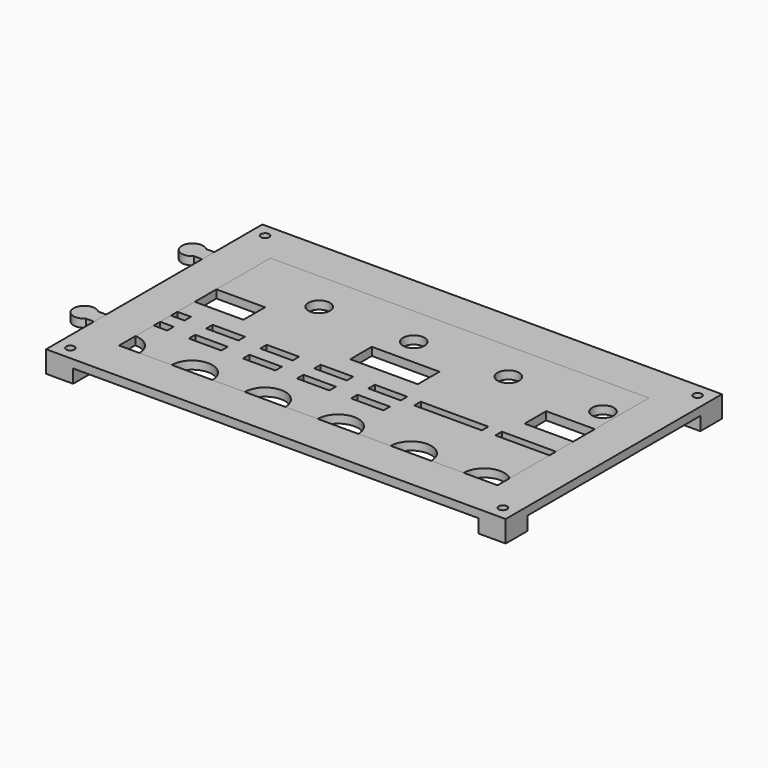
from build123d import *

# Parameters (mm, degrees)
PAD_DEPTH                          = 3
SKETCH011_R                        = 1.6
POCKET_DEPTH                       = 414.570013
SKETCH011_MIRRORED009_2_R          = 1.6
POCKET_MIRRORED009_2_DEPTH         = 414.570013
SKETCH012_R                        = 2.6
POCKET008_DEPTH                    = 3.001
LINEARPATTERN_COUNT                = 8
LINEARPATTERN_PITCH                = 21.428571
SKETCH013_R                        = 4
POCKET009_DEPTH                    = 3.001
LINEARPATTERN001_COUNT             = 5
LINEARPATTERN001_PITCH             = 35
SKETCH014_R                        = 7.5
POCKET010_DEPTH                    = 3.001
LINEARPATTERN002_COUNT             = 6
LINEARPATTERN002_PITCH             = 27
SKETCH015_W                        = 12
SKETCH015_H                        = 3
POCKET011_DEPTH                    = 3.001
LINEARPATTERN003_COUNT             = 5
LINEARPATTERN003_PITCH             = 20
SKETCH016_W                        = 25
SKETCH016_H                        = 10
POCKET012_DEPTH                    = 3.001
LINEARPATTERN004_COUNT             = 3
LINEARPATTERN004_PITCH             = 64.5
SKETCH017_W                        = 25
SKETCH017_H                        = 3
POCKET013_DEPTH                    = 414.570013
LINEARPATTERN005_COUNT             = 2
LINEARPATTERN005_PITCH             = 30
SKETCH007_W                        = 170
SKETCH007_H                        = 100
PAD001_DEPTH                       = 3
SKETCH008_R                        = 1.55
POCKET006_DEPTH                    = 397.508288
POCKET006_DEPTH_BACK               = -394.508288
SKETCH008_MIRRORED003_2_R          = 1.55
POCKET006_MIRRORED003_2_DEPTH      = 397.508288
POCKET006_MIRRORED003_2_DEPTH_BACK = 394.508288
SKETCH009_W                        = 10
SKETCH009_H                        = 10
PAD002_DEPTH                       = 5
SKETCH009_MIRRORED005_2_W          = 10
SKETCH009_MIRRORED005_2_H          = 10
PAD002_MIRRORED005_2_DEPTH         = 5
SKETCH010_R                        = 3
POCKET007_DEPTH                    = 5
SKETCH010_MIRRORED007_2_R          = 3
POCKET007_MIRRORED007_2_DEPTH      = 5
SKETCH018_W                        = 140
SKETCH018_H                        = 70
POCKET014_DEPTH                    = 3.001


with BuildPart() as up:
    # Sketch → Pad (new body)
    with BuildSketch(Plane.XY):
        with BuildLine():
            Line((-85, 50), (85, 50))
            Line((85, 28.181981), (85, 50))
            Line((82, 28.181981), (85, 28.181981))
            ThreePointArc((82, 28.181981), (74.318019, 25), (82, 21.818019))
            Line((82, 21.818019), (85, 21.818019))
            Line((85, 0), (85, 21.818019))
            Line((85, 0), (-85, 0))
            Line((-85, 22.171573), (-85, 0))
            Line((-88, 22.171573), (-85, 22.171573))
            ThreePointArc((-88, 27.828427), (-94.828427, 25), (-88, 22.171573))
            Line((-88, 27.828427), (-85, 27.828427))
            Line((-85, 50), (-85, 27.828427))
        make_face()
    pad = extrude(amount=PAD_DEPTH)

    # Mirrored: Pad across Sketch H_Axis
    add(pad.mirror(Plane.ZX))

    # Sketch011 (on Face1 of Copyrefine) → Pocket (cut, through all)
    with BuildSketch(Plane.XY.offset(3)):
        with Locations((-80, 45)):
            Circle(SKETCH011_R)
    pocket = extrude(amount=-POCKET_DEPTH, mode=Mode.SUBTRACT)

    # Sketch011 Mirrored009 2 → Pocket Mirrored009 2 (cut, through all)
    with BuildSketch(Plane(origin=(0, 0, 3), x_dir=(-1, 0, 0), z_dir=(0, 0, -1))):
        with Locations((-80, 45)):
            Circle(SKETCH011_MIRRORED009_2_R)
    pocket_mirrored009_2 = extrude(amount=POCKET_MIRRORED009_2_DEPTH, mode=Mode.SUBTRACT)

    # Mirrored010: Pocket, Pocket Mirrored009 2 across Sketch011 H_Axis
    add(pocket.mirror(Plane(origin=(0, 0, 3), x_dir=(0, 0, 1), z_dir=(0, 1, 0))), mode=Mode.SUBTRACT)
    add(pocket_mirrored009_2.mirror(Plane(origin=(0, 0, 3), x_dir=(0, 0, 1), z_dir=(0, 1, 0))), mode=Mode.SUBTRACT)

    # Sketch012 (on Face5 of MultiTransform) → Pocket008 (cut, through all)
    with BuildSketch(Plane.XY.offset(3)):
        with Locations((-75, 40)):
            Circle(SKETCH012_R)
    pocket008 = extrude(amount=-POCKET008_DEPTH, mode=Mode.SUBTRACT)

    # LinearPattern: Pocket008 ×8
    with Locations(*[(i * LINEARPATTERN_PITCH, 0, 0) for i in range(1, LINEARPATTERN_COUNT)]):
        add(pocket008, mode=Mode.SUBTRACT)

    # Sketch013 (on Face5 of LinearPattern) → Pocket009 (cut, through all)
    with BuildSketch(Plane.XY.offset(3)):
        with Locations((-75, 20)):
            Circle(SKETCH013_R)
    pocket009 = extrude(amount=-POCKET009_DEPTH, mode=Mode.SUBTRACT)

    # LinearPattern001: Pocket009 ×5
    with Locations(*[(i * LINEARPATTERN001_PITCH, 0, 0) for i in range(1, LINEARPATTERN001_COUNT)]):
        add(pocket009, mode=Mode.SUBTRACT)

    # Sketch014 (on Face30 of LinearPattern001) → Pocket010 (cut, through all)
    with BuildSketch(Plane.XY.offset(3)):
        with Locations((-70, -35)):
            Circle(SKETCH014_R)
    pocket010 = extrude(amount=-POCKET010_DEPTH, mode=Mode.SUBTRACT)

    # LinearPattern002: Pocket010 ×6
    with Locations(*[(i * LINEARPATTERN002_PITCH, 0, 0) for i in range(1, LINEARPATTERN002_COUNT)]):
        add(pocket010, mode=Mode.SUBTRACT)

    # Sketch015 (on Face30 of LinearPattern002) → Pocket011 (cut, through all)
    with BuildSketch(Plane.XY.offset(3)):
        with Locations((-71, -9.5)):
            Rectangle(SKETCH015_W, SKETCH015_H)
        with Locations((-71, -17.5)):
            Rectangle(SKETCH015_W, SKETCH015_H)
    pocket011 = extrude(amount=-POCKET011_DEPTH, mode=Mode.SUBTRACT)

    # LinearPattern003: Pocket011 ×5
    with Locations(*[(i * LINEARPATTERN003_PITCH, 0, 0) for i in range(1, LINEARPATTERN003_COUNT)]):
        add(pocket011, mode=Mode.SUBTRACT)

    # Sketch016 (on Face5 of LinearPattern003) → Pocket012 (cut, through all)
    with BuildSketch(Plane.XY.offset(3)):
        with Locations((-64.5, 5)):
            Rectangle(SKETCH016_W, SKETCH016_H)
    pocket012 = extrude(amount=-POCKET012_DEPTH, mode=Mode.SUBTRACT)

    # LinearPattern004: Pocket012 ×3
    with Locations(*[(i * LINEARPATTERN004_PITCH, 0, 0) for i in range(1, LINEARPATTERN004_COUNT)]):
        add(pocket012, mode=Mode.SUBTRACT)

    # Sketch017 (on Face39 of LinearPattern004) → Pocket013 (cut, through all)
    with BuildSketch(Plane.XY.offset(3)):
        with Locations((32.5, -9.5)):
            Rectangle(SKETCH017_W, SKETCH017_H)
    pocket013 = extrude(amount=-POCKET013_DEPTH, mode=Mode.SUBTRACT)

    # LinearPattern005: Pocket013 ×2
    with Locations(*[(i * LINEARPATTERN005_PITCH, 0, 0) for i in range(1, LINEARPATTERN005_COUNT)]):
        add(pocket013, mode=Mode.SUBTRACT)


with BuildPart() as down:
    # Sketch007 → Pad001 (new body)
    with BuildSketch(Plane.XY):
        Rectangle(SKETCH007_W, SKETCH007_H)
    extrude(amount=PAD001_DEPTH)

    # Sketch008 (on Face5 of Pad001) → Pocket006 (cut, two sides)
    with BuildSketch(Plane(origin=(0, 0, 0), x_dir=(1, 0, 0), z_dir=(0, 0, -1))) as pocket006_sk:
        with Locations((-80, 45)):
            Circle(SKETCH008_R)
    pocket006 = extrude(amount=-POCKET006_DEPTH, mode=Mode.SUBTRACT)
    extrude(pocket006_sk.sketch, amount=-POCKET006_DEPTH_BACK, mode=Mode.SUBTRACT)

    # Sketch008 Mirrored003 2 → Pocket006 Mirrored003 2 (cut, two sides)
    with BuildSketch(Plane(origin=(0, 0, 0), x_dir=(-1, 0, 0), z_dir=(0, 0, 1))) as pocket006_mirrored003_2_sk:
        with Locations((-80, 45)):
            Circle(SKETCH008_MIRRORED003_2_R)
    pocket006_mirrored003_2 = extrude(amount=POCKET006_MIRRORED003_2_DEPTH, mode=Mode.SUBTRACT)
    extrude(pocket006_mirrored003_2_sk.sketch, amount=-POCKET006_MIRRORED003_2_DEPTH_BACK, mode=Mode.SUBTRACT)

    # Mirrored004: Pocket006, Pocket006 Mirrored003 2 across Sketch008 H_Axis
    add(pocket006.mirror(Plane(origin=(0, 0, 0), x_dir=(0, 0, -1), z_dir=(0, -1, 0))), mode=Mode.SUBTRACT)
    add(pocket006_mirrored003_2.mirror(Plane(origin=(0, 0, 0), x_dir=(0, 0, -1), z_dir=(0, -1, 0))), mode=Mode.SUBTRACT)

    # Sketch009 (on Face4 of MultiTransform002) → Pad002 (join)
    with BuildSketch(Plane(origin=(0, 0, 0), x_dir=(1, 0, 0), z_dir=(0, 0, -1))):
        with Locations((-80, 45)):
            Rectangle(SKETCH009_W, SKETCH009_H)
    pad002 = extrude(amount=PAD002_DEPTH)

    # Sketch009 Mirrored005 2 → Pad002 Mirrored005 2 (add)
    with BuildSketch(Plane(origin=(0, 0, 0), x_dir=(-1, 0, 0), z_dir=(0, 0, 1))):
        with Locations((-80, 45)):
            Rectangle(SKETCH009_MIRRORED005_2_W, SKETCH009_MIRRORED005_2_H)
    pad002_mirrored005_2 = extrude(amount=-PAD002_MIRRORED005_2_DEPTH)

    # Mirrored006: Pad002, Pad002 Mirrored005 2 across Sketch009 H_Axis
    add(pad002.mirror(Plane(origin=(0, 0, 0), x_dir=(0, 0, -1), z_dir=(0, -1, 0))))
    add(pad002_mirrored005_2.mirror(Plane(origin=(0, 0, 0), x_dir=(0, 0, -1), z_dir=(0, -1, 0))))

    # Sketch010 (on Face33 of MultiTransform003) → Pocket007 (cut)
    with BuildSketch(Plane(origin=(0, 0, -5), x_dir=(1, 0, 0), z_dir=(0, 0, -1))):
        with Locations((-80, 45)):
            Circle(SKETCH010_R)
    pocket007 = extrude(amount=-POCKET007_DEPTH, mode=Mode.SUBTRACT)

    # Sketch010 Mirrored007 2 → Pocket007 Mirrored007 2 (cut)
    with BuildSketch(Plane(origin=(0, 0, -5), x_dir=(-1, 0, 0), z_dir=(0, 0, 1))):
        with Locations((-80, 45)):
            Circle(SKETCH010_MIRRORED007_2_R)
    pocket007_mirrored007_2 = extrude(amount=POCKET007_MIRRORED007_2_DEPTH, mode=Mode.SUBTRACT)

    # Mirrored008: Pocket007, Pocket007 Mirrored007 2 across Sketch010 H_Axis
    add(pocket007.mirror(Plane(origin=(0, 0, -5), x_dir=(0, 0, -1), z_dir=(0, -1, 0))), mode=Mode.SUBTRACT)
    add(pocket007_mirrored007_2.mirror(Plane(origin=(0, 0, -5), x_dir=(0, 0, -1), z_dir=(0, -1, 0))), mode=Mode.SUBTRACT)

    # Sketch018 (on Face11 of MultiTransform004) → Pocket014 (cut, through all)
    with BuildSketch(Plane(origin=(0, 0, 0), x_dir=(1, 0, 0), z_dir=(0, 0, -1))):
        Rectangle(SKETCH018_W, SKETCH018_H)
    extrude(amount=-POCKET014_DEPTH, mode=Mode.SUBTRACT)


solid = Compound([up.part, down.part])
